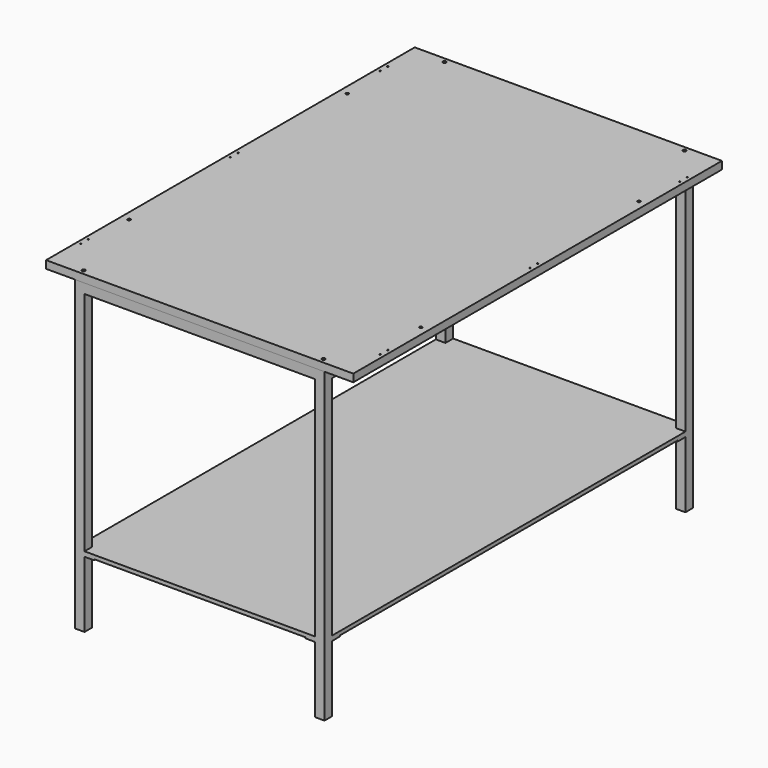
from build123d import *

# Parameters (mm, degrees)
F0_W      = 800
F0_H      = 1200
F1_DEPTH  = 20
F2_W      = 25
F2_H      = 25
F3_DEPTH  = 800
F4_W      = 600
F4_H      = 25
F5_DEPTH  = 25
F4_W_2    = 25
F4_H_2    = 1150
F7_D      = 3.3
F9_D      = 7.5
F10_D     = 8.8
F14_DEPTH = 2.5
F16_DEPTH = 10


with BuildPart() as f1:
    # F0 (on Top) → F1 (new body)
    with BuildSketch(Plane.XY):
        Rectangle(F0_W, F0_H)
    extrude(amount=F1_DEPTH)

    # F7 (through all)
    with Locations(Plane(origin=(0, 0, 0), x_dir=(1, 0, 0), z_dir=(0, 0, -1))):
        with Locations((390, 500), (390, 475), (390, 12.5), (390, -12.5), (390, -500), (390, -475), (-390, -500), (-390, -475), (-390, -12.5), (-390, 12.5), (-390, 475), (-390, 500)):
            Hole(F7_D / 2)

    # F9 (through all)
    with Locations(Plane(origin=(0, 0, 0), x_dir=(1, 0, 0), z_dir=(0, 0, -1))):
        with Locations((380, 355), (380, -355), (-380, -355), (-380, 355)):
            Hole(F9_D / 2)

    # F10 (through all)
    with Locations(Plane(origin=(0, 0, 0), x_dir=(1, 0, 0), z_dir=(0, 0, -1))):
        with Locations((-312.5, 587.5), (312.5, 587.5), (312.5, -587.5), (-312.5, -587.5)):
            Hole(F10_D / 2)


with BuildPart() as f3:
    # F2 (on face) → F3 (new body)
    with BuildSketch(Plane(origin=(0, 0, 0), x_dir=(1, 0, 0), z_dir=(0, 0, -1))):
        with Locations((-312.5, 587.5)):
            Rectangle(F2_W, F2_H)
    extrude(amount=F3_DEPTH)


with BuildPart() as f3b:
    # F2 (on face) → F3, piece 2 (new body)
    with BuildSketch(Plane(origin=(0, 0, 0), x_dir=(1, 0, 0), z_dir=(0, 0, -1))):
        with Locations((312.5, 587.5)):
            Rectangle(F2_W, F2_H)
    extrude(amount=F3_DEPTH)


with BuildPart() as f3c:
    # F2 (on face) → F3, piece 3 (new body)
    with BuildSketch(Plane(origin=(0, 0, 0), x_dir=(1, 0, 0), z_dir=(0, 0, -1))):
        with Locations((-312.5, -587.5)):
            Rectangle(F2_W, F2_H)
    extrude(amount=F3_DEPTH)


with BuildPart() as f3d:
    # F2 (on face) → F3, piece 4 (new body)
    with BuildSketch(Plane(origin=(0, 0, 0), x_dir=(1, 0, 0), z_dir=(0, 0, -1))):
        with Locations((312.5, -587.5)):
            Rectangle(F2_W, F2_H)
    extrude(amount=F3_DEPTH)


with BuildPart() as f5:
    # F4 (on face) → F5 (new body)
    with BuildSketch(Plane(origin=(0, 0, 0), x_dir=(1, 0, 0), z_dir=(0, 0, -1))):
        with Locations((0, -587.5)):
            Rectangle(F4_W, F4_H)
    extrude(amount=F5_DEPTH)


with BuildPart() as f5b:
    # F4 (on face) → F5, piece 2 (new body)
    with BuildSketch(Plane(origin=(0, 0, 0), x_dir=(1, 0, 0), z_dir=(0, 0, -1))):
        with Locations((-312.5, 0)):
            Rectangle(F4_W_2, F4_H_2)
    extrude(amount=F5_DEPTH)


with BuildPart() as f5c:
    # F4 (on face) → F5, piece 3 (new body)
    with BuildSketch(Plane(origin=(0, 0, 0), x_dir=(1, 0, 0), z_dir=(0, 0, -1))):
        with Locations((312.5, 0)):
            Rectangle(F4_W_2, F4_H_2)
    extrude(amount=F5_DEPTH)


with BuildPart() as f5d:
    # F4 (on face) → F5, piece 4 (new body)
    with BuildSketch(Plane(origin=(0, 0, 0), x_dir=(1, 0, 0), z_dir=(0, 0, -1))):
        with Locations((0, 587.5)):
            Rectangle(F4_W, F4_H)
    extrude(amount=F5_DEPTH)


with BuildPart() as f3_1:
    add(f3.part)

    # F8: union F3b, F3c, F3d, F5d, F5b, F5, F5c
    add(f3b.part)
    add(f3c.part)
    add(f3d.part)
    add(f5d.part)
    add(f5b.part)
    add(f5.part)
    add(f5c.part)

    # F13 (on offset) → F14 (join)
    with BuildSketch(Plane(origin=(0, 0, -625), x_dir=(1, 0, 0), z_dir=(0, 0, -1))):
        Polygon((325, 575), (300, 575), (300, 600), (275, 600), (275, 550), (325, 550), align=None)
        Polygon((-325, -575), (-300, -575), (-300, -600), (-275, -600), (-275, -550), (-325, -550), align=None)
        Polygon((300, -600), (300, -575), (325, -575), (325, -550), (275, -550), (275, -600), align=None)
        Polygon((-300, 600), (-300, 575), (-325, 575), (-325, 550), (-275, 550), (-275, 600), align=None)
    extrude(amount=F14_DEPTH)

    # F15 (on face) → F16 (join)
    with BuildSketch(Plane.XY.offset(-625)):
        Polygon((-275, -600), (275, -600), (275, -550), (325, -550), (325, 550), (275, 550), (275, 600), (-275, 600), (-275, 550), (-325, 550), (-325, -550), (-275, -550), align=None)
        Polygon((275, 550), (325, 550), (325, 575), (300, 575), (300, 600), (275, 600), align=None)
        Polygon((-325, 575), (-325, 550), (-275, 550), (-275, 600), (-300, 600), (-300, 575), align=None)
        Polygon((-300, -600), (-275, -600), (-275, -550), (-325, -550), (-325, -575), (-300, -575), align=None)
        Polygon((275, -550), (275, -600), (300, -600), (300, -575), (325, -575), (325, -550), align=None)
    extrude(amount=F16_DEPTH)


solid = Compound([f1.part, f3_1.part])
